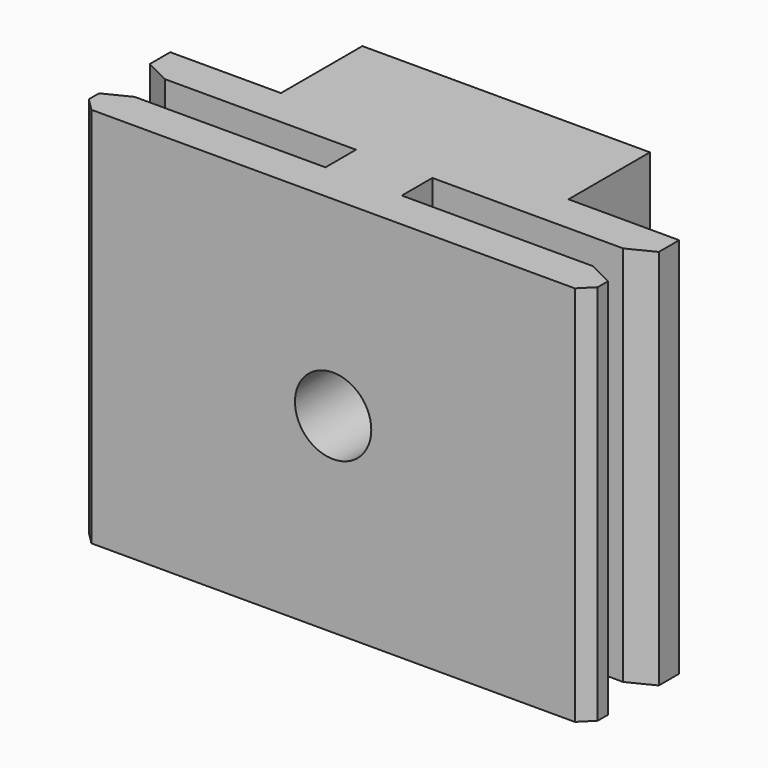
from build123d import *

# Parameters (mm, degrees)
CYLINDER004_R      = 1.7
CYLINDER004_DEPTH  = 30
CYLINDER003_R      = 3
CYLINDER003_DEPTH  = 30
BOX012_W           = 40
BOX012_H           = 3
BOX012_DEPTH       = 30
BOX011_W           = 6
BOX011_H           = 6
BOX011_DEPTH       = 30
BOX013_W           = 40
BOX013_H           = 3
BOX013_DEPTH       = 30
BOX010_W           = 22.6
BOX010_H           = 11
BOX010_DEPTH       = 30
CHAMFER012_1_SIZE2 = 1
CHAMFER012_1_SIZE  = 2
CHAMFER012_2_SIZE2 = 1
CHAMFER012_2_SIZE  = 2
CHAMFER012_3_SIZE2 = 1
CHAMFER012_3_SIZE  = 2
CHAMFER013_SIZE2   = 2
CHAMFER013_SIZE    = 1
CHAMFER014_SIZE    = 1


with BuildPart() as cylinder004:
    # Cylinder004 → Cylinder004 (new body)
    with BuildSketch(Plane(origin=(0, 18, 15), x_dir=(1, 0, 0), z_dir=(0, -1, 0))):
        Circle(CYLINDER004_R)
    extrude(amount=CYLINDER004_DEPTH)


with BuildPart() as cylinder003:
    # Cylinder003 → Cylinder003 (new body)
    with BuildSketch(Plane(origin=(0, 5, 15), x_dir=(1, 0, 0), z_dir=(0, -1, 0))):
        Circle(CYLINDER003_R)
    extrude(amount=CYLINDER003_DEPTH)


with BuildPart() as cube012:
    # Box012 → Box012 (new body)
    with BuildSketch(Plane(origin=(-20, 0, 0), x_dir=(1, 0, 0), z_dir=(0, 0, 1))):
        with Locations((20, 1.5)):
            Rectangle(BOX012_W, BOX012_H)
    extrude(amount=BOX012_DEPTH)


with BuildPart() as cube011:
    # Box011 → Box011 (new body)
    with BuildSketch(Plane(origin=(-3, -6, 0), x_dir=(1, 0, 0), z_dir=(0, 0, 1))):
        with Locations((3, 3)):
            Rectangle(BOX011_W, BOX011_H)
    extrude(amount=BOX011_DEPTH)


with BuildPart() as cube013:
    # Box013 → Box013 (new body)
    with BuildSketch(Plane(origin=(-20, -6, 0), x_dir=(1, 0, 0), z_dir=(0, 0, 1))):
        with Locations((20, 1.5)):
            Rectangle(BOX013_W, BOX013_H)
    extrude(amount=BOX013_DEPTH)


with BuildPart() as obj1:
    # Box010 → Box010 (new body)
    with BuildSketch(Plane(origin=(-11.3, 0, 0), x_dir=(1, 0, 0), z_dir=(0, 0, 1))):
        with Locations((11.3, 5.5)):
            Rectangle(BOX010_W, BOX010_H)
    extrude(amount=BOX010_DEPTH)

    # Fusion005: union Cube012, Cube011, Cube013
    add(cube012.part)
    add(cube011.part)
    add(cube013.part)

    # Chamfer012 1
    chamfer012_1_edges = [obj1.edges().sort_by_distance(p)[0] for p in [
        (-20, -3, 15),
    ]]
    chamfer012_1_side = obj1.faces().sort_by_distance((-11.5, -3, 15))[0]
    chamfer(chamfer012_1_edges, length=CHAMFER012_1_SIZE, length2=CHAMFER012_1_SIZE2, reference=chamfer012_1_side)

    # Chamfer012 2
    chamfer012_2_edges = [obj1.edges().sort_by_distance(p)[0] for p in [
        (20, -3, 15),
    ]]
    chamfer012_2_side = obj1.faces().sort_by_distance((11.5, -3, 15))[0]
    chamfer(chamfer012_2_edges, length=CHAMFER012_2_SIZE, length2=CHAMFER012_2_SIZE2, reference=chamfer012_2_side)

    # Chamfer012 3
    chamfer012_3_edges = [obj1.edges().sort_by_distance(p)[0] for p in [
        (-20, 0, 15),
    ]]
    chamfer012_3_side = obj1.faces().sort_by_distance((-15.65, 0, 15))[0]
    chamfer(chamfer012_3_edges, length=CHAMFER012_3_SIZE, length2=CHAMFER012_3_SIZE2, reference=chamfer012_3_side)

    # Chamfer013
    chamfer013_edges = [obj1.edges().sort_by_distance(p)[0] for p in [
        (20, 0, 15),
    ]]
    chamfer013_side = obj1.faces().sort_by_distance((20, 1.5, 15))[0]
    chamfer(chamfer013_edges, length=CHAMFER013_SIZE, length2=CHAMFER013_SIZE2, reference=chamfer013_side)

    # Chamfer014
    chamfer014_edges = [obj1.edges().sort_by_distance(p)[0] for p in [
        (-20, -6, 15),
        (20, -6, 15),
    ]]
    chamfer(chamfer014_edges, length=CHAMFER014_SIZE)

    # Cut006: cut Cylinder003
    add(cylinder003.part, mode=Mode.SUBTRACT)

    # Cut007: cut Cylinder004
    add(cylinder004.part, mode=Mode.SUBTRACT)


solid = obj1.part
